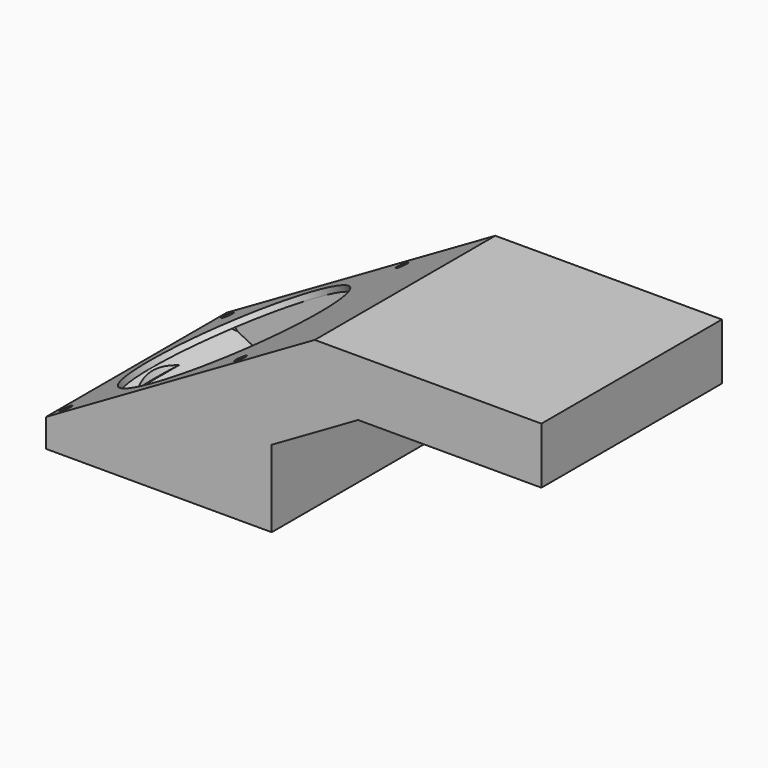
from build123d import *

# Parameters (mm, degrees)
F1_DEPTH = 40
F3_DEPTH = 35
F4_R     = 35
F4_R_2   = 2
F5_DEPTH = 5


with BuildPart() as f1:
    # F0 (on Front) → F1 (new body, symmetric)
    with BuildSketch(Plane.XZ):
        Polygon((66.8717782649, 24.1746824527), (40.8910161514, 9.1746824527), (-28.3910161514, -30.8253175473), (-28.3910161514, -40.8253175473), (51.6089838486, -40.8253175473), (51.6089838486, -13.5048094716), (82.2307621135, 4.1746824527), (147.2307621135, 4.1746824527), (147.2307621135, 24.1746824527), align=None)
    extrude(amount=F1_DEPTH, both=True)

    # F2 (on Front) → F3 (cut, symmetric)
    with BuildSketch(Plane.XZ):
        with BuildLine():
            ThreePointArc((-23.4223891848, -30.2660805074), (17.6554756717, -37.2808918374), (50.6089838486, -11.772758664))
            Line((50.6089838486, -11.772758664), (81.6948637287, 6.1746824527))
            Line((81.6948637287, 6.1746824527), (145.2307621135, 6.1746824527))
            Line((145.2307621135, 6.1746824527), (145.2307621135, 12.1746824527))
            ThreePointArc((145.2307621135, 12.1746824527), (142.3018299254, 19.2457502646), (135.2307621135, 22.1746824527))
            Line((135.2307621135, 22.1746824527), (67.4076766498, 22.1746824527))
            Line((67.4076766498, 22.1746824527), (-23.4223891848, -30.2660805074))
        make_face()
    extrude(amount=F3_DEPTH, both=True, mode=Mode.SUBTRACT)

    # F4 (on face) → F5 (cut)
    with BuildSketch(Plane(origin=(6.25, 0, -10.8253175473), x_dir=(0.8660254038, 0, 0.5), z_dir=(-0.5, 0, 0.8660254038))):
        Circle(F4_R)
        with Locations((-35.75, 35.75)):
            Circle(F4_R_2)
        with Locations((35.75, 35.75)):
            Circle(F4_R_2)
        with Locations((35.75, -35.75)):
            Circle(F4_R_2)
        with Locations((-35.75, -35.75)):
            Circle(F4_R_2)
    extrude(amount=-F5_DEPTH, mode=Mode.SUBTRACT)


solid = f1.part
